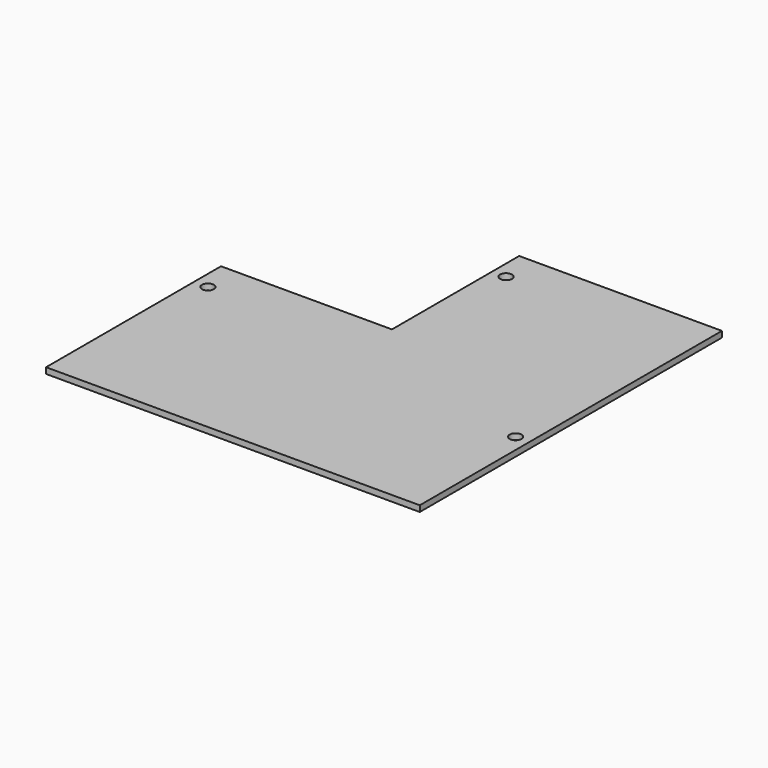
from build123d import *

# Parameters (mm, degrees)
PAD_DEPTH    = 1.5
SKETCH011_R  = 1.5
POCKET_DEPTH = 5


with BuildPart() as part:
    # Sketch → Pad (new body)
    with BuildSketch(Plane.XY):
        Polygon((-4, 7.5), (-4, 47.5), (47, 47.5), (47, -47.5), (-47, -47.5), (-47, 7.5), align=None)
    extrude(amount=PAD_DEPTH)

    # Sketch011 → Pocket (cut)
    with BuildSketch(Plane.XY.offset(1.5)):
        with Locations((43.5, -13)):
            Circle(SKETCH011_R)
        with Locations((-0.5, 39)):
            Circle(SKETCH011_R)
        with Locations((-43.5, -1)):
            Circle(SKETCH011_R)
    extrude(amount=-POCKET_DEPTH, mode=Mode.SUBTRACT)


solid = part.part
